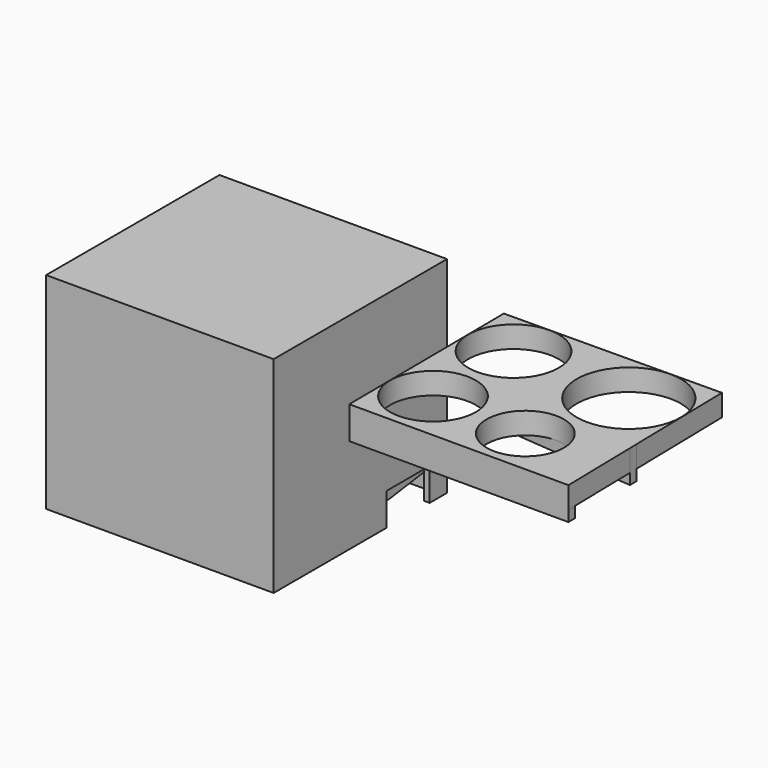
from build123d import *

# Parameters (mm, degrees)
F0_W      = 53.34
F0_H      = 50.8
F1_DEPTH  = 2.54
F2_W      = 50.8
F2_H      = 48.26
F3_DEPTH  = 45.72
F4_W      = 1.27
F4_H      = 12.7
F5_DEPTH  = 7.62
F6_W      = 50.8
F6_H      = 39.37
F7_DEPTH  = 1.27
F9_DEPTH  = 1.27
F11_DEPTH = 1.27
F13_DEPTH = 1.27
F15_DEPTH = 38.1
F16_R     = 10.05
F16_R_2   = 9.05
F16_R_3   = 10.605
F16_R_4   = 12.2
F17_DEPTH = 5.08
F19_DEPTH = 7.62


with BuildPart() as f1:
    # F0 (on Top) → F1 (new body)
    with BuildSketch(Plane.XY):
        with Locations((6.545385, 6.369493)):
            Rectangle(F0_W, F0_H)
    extrude(amount=F1_DEPTH)

    # F2 (on face) → F3 (join)
    with BuildSketch(Plane(origin=(0, 0, 0), x_dir=(1, 0, 0), z_dir=(0, 0, -1))):
        Polygon((-18.854615, 19.030507), (-20.124615, 19.030507), (-20.124615, -31.769493), (-18.854615, -31.769493), (31.945385, -31.769493), (33.215385, -31.769493), (33.215385, 19.030507), (31.945385, 19.030507), align=None)
        with Locations((6.545385, -6.369493)):
            Rectangle(F2_W, F2_H, mode=Mode.SUBTRACT)
    extrude(amount=F3_DEPTH)

    # F4 (on face) → F5 (cut)
    with BuildSketch(Plane(origin=(0, 0, -45.72), x_dir=(1, 0, 0), z_dir=(0, 0, -1))):
        with Locations((32.580385, -20.339493)):
            Rectangle(F4_W, F4_H)
    extrude(amount=-F5_DEPTH, mode=Mode.SUBTRACT)

    # F6 (on face) → F7 (join)
    with BuildSketch(Plane.XZ.offset(-30.499493)):
        with Locations((6.545385, -19.685)):
            Rectangle(F6_W, F6_H)
    extrude(amount=F7_DEPTH)

    # F8 (on face) → F9 (join)
    with BuildSketch(Plane(origin=(0, -17.760507, 0), x_dir=(-1, 0, 0), z_dir=(0, 1, 0))):
        Polygon((18.854615, -38.1), (18.854615, 0), (-31.945385, 0), (-31.945385, -45.72), align=None)
    extrude(amount=F9_DEPTH)

    # F10 (on face) → F11 (join)
    with BuildSketch(Plane(origin=(31.945385, 0, 0), x_dir=(0, -1, 0), z_dir=(-1, 0, 0))):
        Polygon((16.490507, -45.72), (16.490507, 0), (-29.229493, 0), (-29.229493, -39.37), align=None)
    extrude(amount=F11_DEPTH)

    # F12 (on face) → F13 (join)
    with BuildSketch(Plane.YZ.offset(-18.854615)):
        Polygon((29.229493, 0), (-16.490507, 0), (-16.490507, -38.1), (29.229493, -39.37), align=None)
    extrude(amount=F13_DEPTH)

    # F14 (on face) → F15 (join)
    with BuildSketch(Plane(origin=(0, 0, 0), x_dir=(1, 0, 0), z_dir=(0, 0, -1))):
        Polygon((4.375385, -29.229493), (6.175385, -29.229493), (6.175385, -4.729493), (30.675385, -4.729493), (30.675385, -2.929493), (6.175385, -2.929493), (6.175385, 16.490507), (4.375385, 16.490507), (4.375385, -2.929493), (-17.584615, -2.929493), (-17.584615, -4.729493), (4.375385, -4.729493), align=None)
    extrude(amount=F15_DEPTH)


with BuildPart() as f17:
    # F16 (on Top) → F17 (new body)
    with BuildSketch(Plane.XY):
        Polygon((57.873074, 17.590984), (58.244838, -28.145505), (109.612838, -28.145505), (108.671395, 18.003893), align=None)
        with Locations((68.217222, -16.095343)):
            Circle(F16_R, mode=Mode.SUBTRACT)
        with Locations((90.661085, -17.095505)):
            Circle(F16_R_2, mode=Mode.SUBTRACT)
        with Locations((68.579044, 7.057655)):
            Circle(F16_R_3, mode=Mode.SUBTRACT)
        with Locations((96.700133, 5.686182)):
            Circle(F16_R_4, mode=Mode.SUBTRACT)
    extrude(amount=F17_DEPTH)

    # F18 (on face) → F19 (join)
    with BuildSketch(Plane.XY.offset(5.08)):
        Polygon((58.228581, -26.145505), (58.244838, -28.145505), (109.612838, -28.145505), (109.572038, -26.145505), align=None)
        Polygon((78.637934, -6.936996), (109.23587, -9.666598), (109.194834, -7.654994), (78.717203, -4.936126), align=None)
    extrude(amount=-F19_DEPTH)


solid = Compound([f1.part, f17.part])
